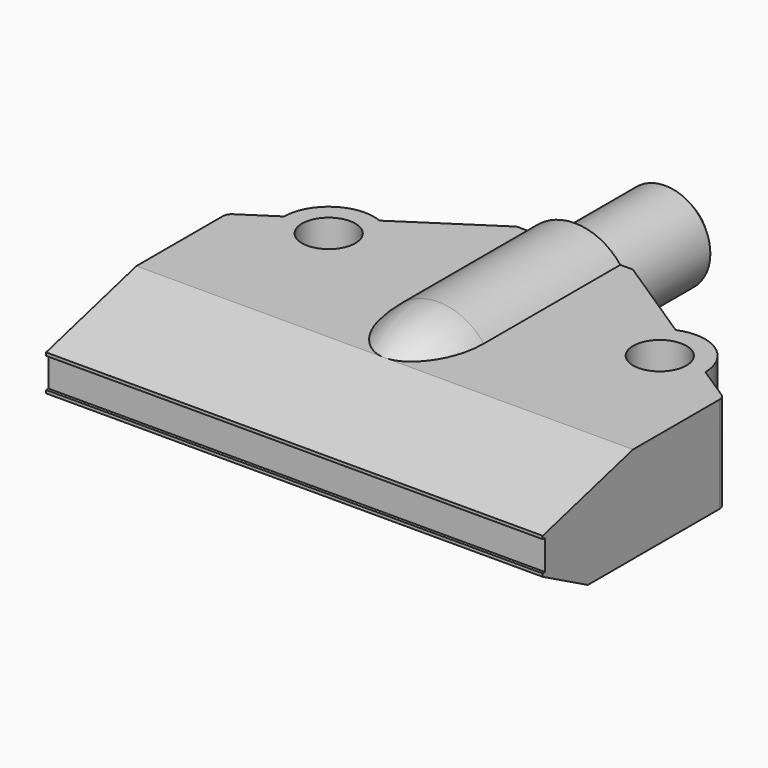
from build123d import *

# Parameters (mm, degrees)
F0_W      = 41.91
F0_H      = 19.05
F1_DEPTH  = 8.128
F3_DEPTH  = 41.911
F4_W      = 0.508
F4_H      = 2.54
F5_DEPTH  = 41.911
F8_SIZE   = 0.762
F10_DEPTH = 8.128
F11_R     = 3.81
F12_DEPTH = 8.128
F14_D     = 4.5
F14_DEPTH = 38.1
F14_TIP   = 1.3519363928
F15_R     = 0.762


with BuildPart() as f1:
    # F0 (on Top) → F1 (new body)
    with BuildSketch(Plane.XY):
        Rectangle(F0_W, F0_H)
    extrude(amount=F1_DEPTH)

    # F2 (on face) → F3 (cut, through all)
    with BuildSketch(Plane.YZ.offset(20.955)):
        Polygon((-9.525, 5.588), (0, 8.128), (-9.525, 8.128), align=None)
        Polygon((-4.7625, 0), (-9.525, 2.54), (-9.525, 0), align=None)
    extrude(amount=-F3_DEPTH, mode=Mode.SUBTRACT)

    # F4 (on face) → F5 (cut, through all)
    with BuildSketch(Plane.YZ.offset(20.955)):
        with Locations((-9.525, 4.064)):
            Rectangle(F4_W, F4_H)
    extrude(amount=-F5_DEPTH, mode=Mode.SUBTRACT)

    # F6 (on Right) → F7 (revolve)
    with BuildSketch(Plane.YZ):
        with BuildLine():
            Line((0, 5.08), (30.353, 5.08))
            Line((30.353, 5.08), (30.353, 8.89))
            Line((30.353, 8.89), (20.828, 8.89))
            Line((20.828, 8.89), (20.051436257, 9.983367576))
            Line((20.051436257, 9.983367576), (5.6547833958, 9.983367576))
            ThreePointArc((5.6547833958, 9.983367576), (2.6790917075, 9.507672027), (0, 8.128))
            Line((0, 8.128), (0, 5.08))
        make_face()
    revolve(axis=Axis((0, 15.1765, 5.08), (0, 1, 0)))

    # F8
    f8_edges = [f1.edges().sort_by_distance(p)[0] for p in [
        (0, 30.353, 1.27),
    ]]
    chamfer(f8_edges, length=F8_SIZE)

    # F9 (on Top) → F10 (join, through all)
    with BuildSketch(Plane.XY):
        Polygon((-3.8409256157, 9.525), (3.8409256157, 9.525), (4.903367576, 9.525), (4.903367576, 20.051436257), (-4.903367576, 20.051436257), (-4.903367576, 9.525), align=None)
        Polygon((4.903367576, 20.051436257), (4.903367576, 9.525), (20.955, 9.525), align=None)
        Polygon((-20.955, 9.525), (-4.903367576, 9.525), (-4.903367576, 20.051436257), align=None)
    extrude(amount=F10_DEPTH)

    # F11 (on face) → F12 (join, through all)
    with BuildSketch(Plane.XY.offset(8.128)):
        with Locations((13.97, 11.557)):
            Circle(F11_R)
        with Locations((-13.97, 11.557)):
            Circle(F11_R)
    extrude(amount=-F12_DEPTH)

    # F14
    with Locations(Plane.XY.offset(8.128)):
        with Locations((-13.97, 11.557), (13.97, 11.557)):
            Hole(F14_D / 2, depth=F14_DEPTH)
            with Locations((0, 0, -(F14_DEPTH + F14_TIP / 2))):  # 118° drill point
                Cone(0, F14_D / 2, F14_TIP, mode=Mode.SUBTRACT)

    # F15
    f15_edges = [f1.edges().sort_by_distance(p)[0] for p in [
        (20.955, 9.525, 4.064),
        (-20.955, 9.525, 4.064),
    ]]
    fillet(f15_edges, radius=F15_R)


solid = f1.part
